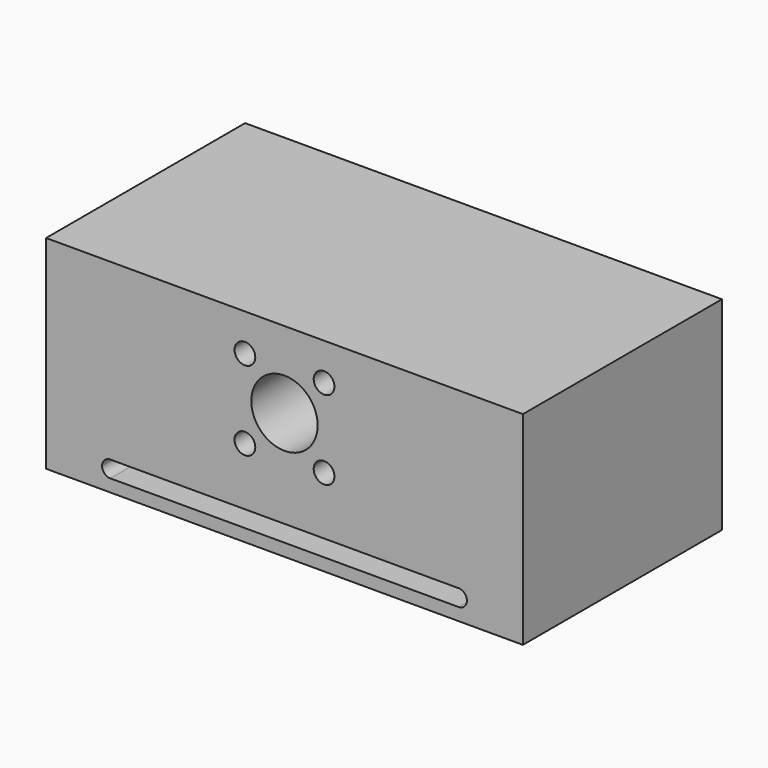
from build123d import *

# Parameters (mm, degrees)
F0_W     = 115
F0_H     = 49
F0_R     = 2.5
F0_R_2   = 8
F1_DEPTH = 60


with BuildPart() as f1:
    # F0 (on Front) → F1 (new body)
    with BuildSketch(Plane.XZ):
        Rectangle(F0_W, F0_H)
        with Locations((-9.545942, -3.545942)):
            Circle(F0_R, mode=Mode.SUBTRACT)
        with BuildLine():
            ThreePointArc((44, -19.5), (43.414214, -20.914214), (42, -21.5))
            Line((42, -21.5), (-42, -21.5))
            ThreePointArc((-42, -21.5), (-43.414214, -20.914214), (-44, -19.5))
            ThreePointArc((-44, -19.5), (-43.414214, -18.085786), (-42, -17.5))
            Line((-42, -17.5), (42, -17.5))
            ThreePointArc((42, -17.5), (43.414214, -18.085786), (44, -19.5))
        make_face(mode=Mode.SUBTRACT)
        with Locations((9.545942, -3.545942)):
            Circle(F0_R, mode=Mode.SUBTRACT)
        with Locations((-9.545942, 15.545942)):
            Circle(F0_R, mode=Mode.SUBTRACT)
        with Locations((0, 6)):
            Circle(F0_R_2, mode=Mode.SUBTRACT)
        with Locations((9.545942, 15.545942)):
            Circle(F0_R, mode=Mode.SUBTRACT)
    extrude(amount=F1_DEPTH)


solid = f1.part
